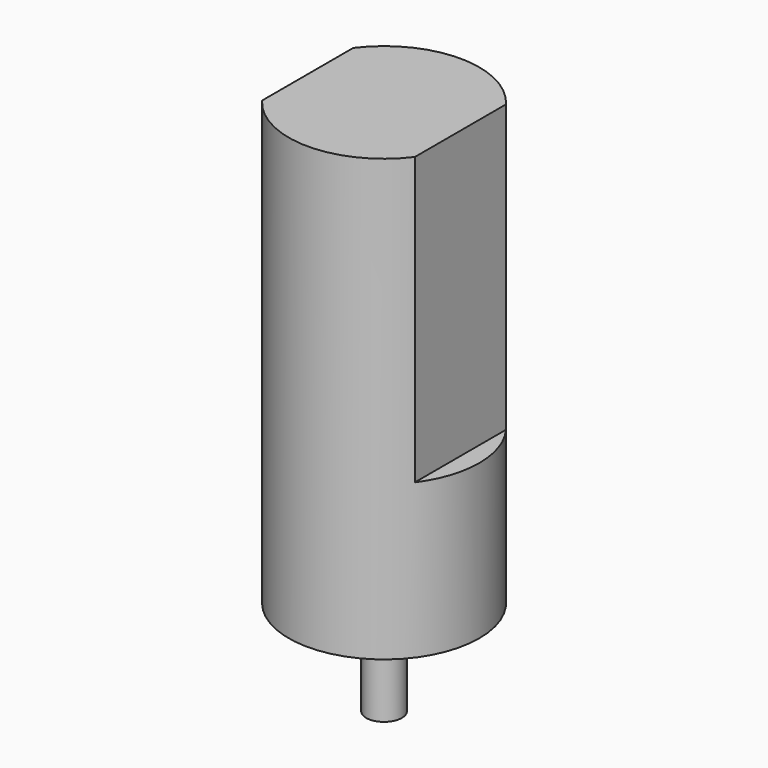
from build123d import *

# Parameters (mm, degrees)
F0_R     = 8
F1_DEPTH = 37
F2_R     = 1.5
F3_DEPTH = 8
F6_DEPTH = 24.046


with BuildPart() as f1:
    # F0 (on Top) → F1 (new body)
    with BuildSketch(Plane.XY):
        Circle(F0_R)
    extrude(amount=F1_DEPTH)

    # F2 (on face) → F3 (join)
    with BuildSketch(Plane(origin=(0, 0, 0), x_dir=(1, 0, 0), z_dir=(0, 0, -1))):
        Circle(F2_R)
    extrude(amount=F3_DEPTH)

    # F5 (on face) → F6 (cut, through all)
    with BuildSketch(Plane.XY.offset(37)):
        with BuildLine():
            Line((-6.4125, -4.783288), (-6.4125, 4.783288))
            ThreePointArc((-6.4125, 4.783288), (-8, 0), (-6.4125, -4.783288))
        make_face()
        with BuildLine():
            ThreePointArc((6.4125, -4.783288), (8, 0), (6.4125, 4.783288))
            Line((6.4125, 4.783288), (6.4125, -4.783288))
        make_face()
    extrude(amount=-F6_DEPTH, mode=Mode.SUBTRACT)


solid = f1.part
